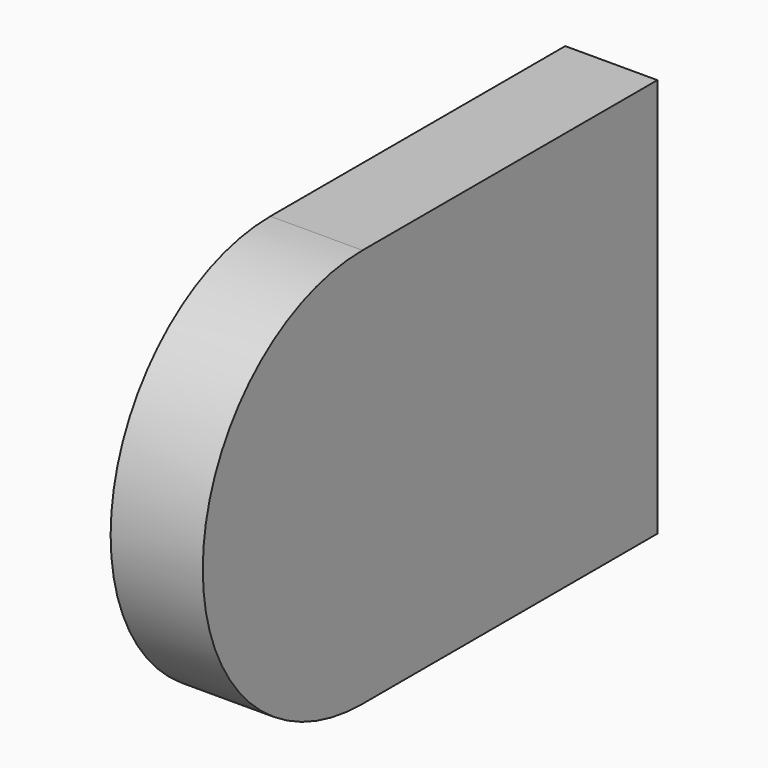
from build123d import *

# Parameters (mm, degrees)
F1_DEPTH = 15


with BuildPart() as f1:
    # F0 (on Right) → F1 (new body)
    with BuildSketch(Plane.YZ):
        with BuildLine():
            Line((59.793829, 31.96131), (-0.206171, 31.96131))
            ThreePointArc((-0.206171, 31.96131), (-32.706171, -0.53869), (-0.206171, -33.03869))
            Line((-0.206171, -33.03869), (59.793829, -33.03869))
            Line((59.793829, -33.03869), (59.793829, 31.96131))
        make_face()
    extrude(amount=F1_DEPTH)


solid = f1.part
